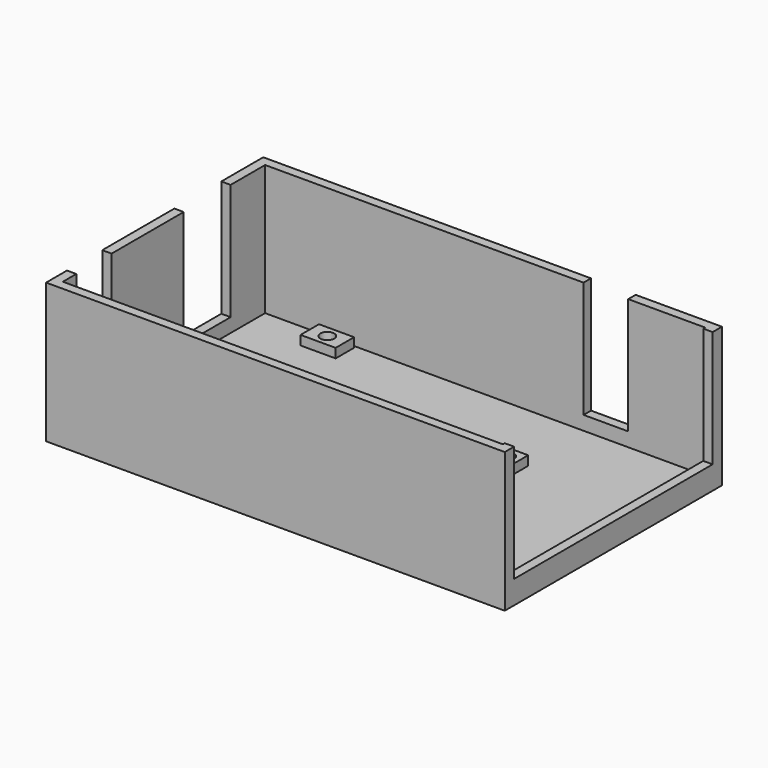
from build123d import *

# Parameters (mm, degrees)
F0_W     = 9.0247368789
F0_H     = 5.08
F0_W_2   = 5.08
F0_H_2   = 4.9726772237
F0_W_3   = 7.5355667663
F0_H_3   = 4.96
F0_H_4   = 4.9763912218
F1_DEPTH = 2
F2_DEPTH = 4
F4_D     = 3
F4_DEPTH = 3
F4_TIP   = 0.9012909285
F0_W_4   = 2
F0_H_5   = 19.347961992
F5_DEPTH = 30
F0_H_6   = 9.4683412462
F0_H_7   = 12.5924479216
F0_W_5   = 9.5816506073
F0_H_8   = 2
F0_H_9   = 53.2766682494
F6_DEPTH = 5


with BuildPart() as f1:
    # F0 (on Top) → F1 (new body)
    with BuildSketch(Plane.XY):
        Polygon((12.5546930358, 21.8509457558), (-55.8220994771, 21.8509457558), (-55.8220994771, 12.5924479216), (-55.8220994771, 0), (-55.8220994771, -19.347961992), (-55.8220994771, -28.8163032383), (-55.8220994771, -32.4290542442), (38.6587072041, -32.4290542442), (38.6587072041, -31.9290542442), (38.6587072041, 21.3476140052), (38.6587072041, 21.8509457558), (22.1363436431, 21.8509457558), align=None)
        with Locations((-41.3520994771, -29.3890542442)):
            Rectangle(F0_W, F0_H, mode=Mode.SUBTRACT)
        with Locations((10.7179005229, -24.3090542442)):
            Rectangle(F0_W_2, F0_H_2, mode=Mode.SUBTRACT)
        with Locations((-40.0820994771, 18.8709457558)):
            Rectangle(F0_W_3, F0_H_3, mode=Mode.SUBTRACT)
        with Locations((10.7179005229, 3.6309457558)):
            Rectangle(F0_W_2, F0_H_4, mode=Mode.SUBTRACT)
    extrude(amount=F1_DEPTH)

    # F0 (on Top) → F2 (join)
    with BuildSketch(Plane.XY):
        with Locations((-40.0820994771, 18.8709457558)):
            Rectangle(F0_W_3, F0_H_3)
        with Locations((10.7179005229, 3.6309457558)):
            Rectangle(F0_W_2, F0_H_4)
        with Locations((10.7179005229, -24.3090542442)):
            Rectangle(F0_W_2, F0_H_2)
        with Locations((-41.3520994771, -29.3890542442)):
            Rectangle(F0_W, F0_H)
    extrude(amount=F2_DEPTH)

    # F4
    with Locations(Plane.XY.offset(4)):
        with Locations((-40.0820994771, 18.8709457558), (-41.3520994771, -29.3890542442), (10.7179005229, -24.3090542442), (10.7179005229, 3.6309457558)):
            Hole(F4_D / 2, depth=F4_DEPTH)
            with Locations((0, 0, -(F4_DEPTH + F4_TIP / 2))):  # 118° drill point
                Cone(0, F4_D / 2, F4_TIP, mode=Mode.SUBTRACT)

    # F0 (on Top) → F5 (join)
    with BuildSketch(Plane.XY):
        Polygon((-55.8220994771, -32.4290542442), (-55.8220994771, -28.8163032383), (-57.8220994771, -28.8163032383), (-57.8220994771, -34.4290542442), (40.6587072041, -34.4290542442), (40.6587072041, -31.9290542442), (38.6587072041, -31.9290542442), (38.6587072041, -32.4290542442), align=None)
        Polygon((-55.8220994771, 12.5924479216), (-55.8220994771, 21.8509457558), (12.5546930358, 21.8509457558), (12.5546930358, 23.8509457558), (-57.8220994771, 23.8509457558), (-57.8220994771, 12.5924479216), align=None)
        with Locations((-56.8220994771, -9.673980996)):
            Rectangle(F0_W_4, F0_H_5)
        Polygon((22.1363436431, 23.8509457558), (22.1363436431, 21.8509457558), (38.6587072041, 21.8509457558), (38.6587072041, 21.3476140052), (40.6587072041, 21.3476140052), (40.6587072041, 23.8509457558), align=None)
    extrude(amount=F5_DEPTH)

    # F0 (on Top) → F6 (join)
    with BuildSketch(Plane.XY):
        with Locations((-56.8220994771, -24.0821326151)):
            Rectangle(F0_W_4, F0_H_6)
        with Locations((-56.8220994771, 6.2962239608)):
            Rectangle(F0_W_4, F0_H_7)
        with Locations((17.3455183394, 22.8509457558)):
            Rectangle(F0_W_5, F0_H_8)
        with Locations((39.6587072041, -5.2907201195)):
            Rectangle(F0_W_4, F0_H_9)
    extrude(amount=F6_DEPTH)


solid = f1.part
